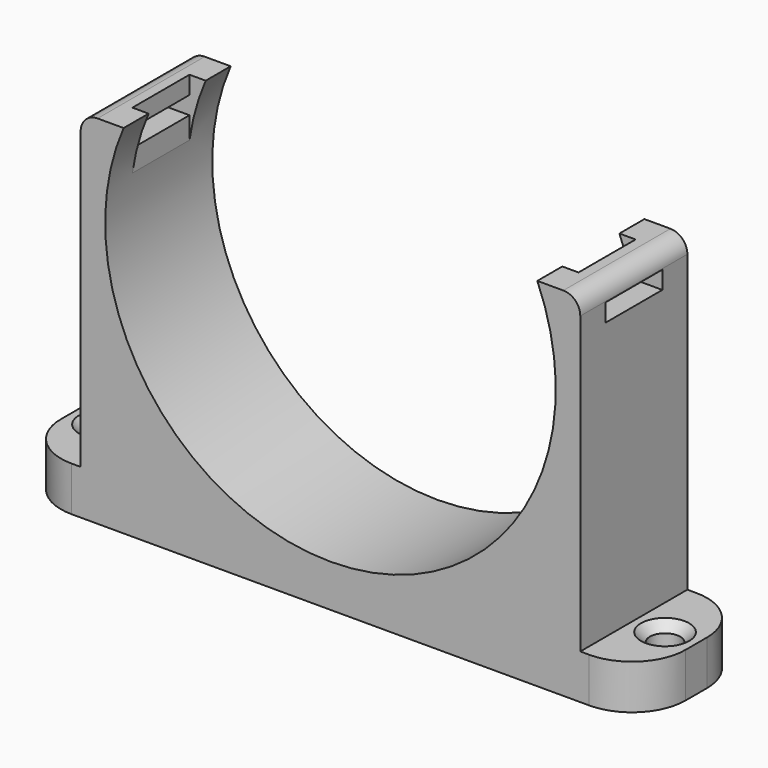
from build123d import *

# Parameters (mm, degrees)
SKETCH_W        = 70
SKETCH_H        = 15
PAD_DEPTH       = 40
SKETCH001_R     = 25.25
POCKET_DEPTH    = 15
SKETCH002_W     = 7
SKETCH002_H     = 15
POCKET001_DEPTH = 35
SKETCH003_R     = 1.7
POCKET002_DEPTH = 5
SKETCH004_W     = 2
SKETCH004_H     = 8
POCKET003_DEPTH = 11
SKETCH005_W     = 8
SKETCH005_H     = 2
POCKET004_DEPTH = 57
FILLET_R        = 1.9
CHAMFER_SIZE    = 1
FILLET001_R     = 6


with BuildPart() as part:
    # Sketch → Pad (new body)
    with BuildSketch(Plane.XY):
        with Locations((35, 7.5)):
            Rectangle(SKETCH_W, SKETCH_H)
    extrude(amount=PAD_DEPTH)

    # Sketch001 (on Face1 of Pad) → Pocket (cut)
    with BuildSketch(Plane.XZ):
        with Locations((35, 30)):
            Circle(SKETCH001_R)
    extrude(amount=-POCKET_DEPTH, mode=Mode.SUBTRACT)

    # Sketch002 (on Face7 of Pocket) → Pocket001 (cut)
    with BuildSketch(Plane.XY.offset(40)):
        with Locations((3.5, 7.5)):
            Rectangle(SKETCH002_W, SKETCH002_H)
        with Locations((66.5, 7.5)):
            Rectangle(SKETCH002_W, SKETCH002_H)
    extrude(amount=-POCKET001_DEPTH, mode=Mode.SUBTRACT)

    # Sketch003 (on Face11 of Pocket001) → Pocket002 (cut)
    with BuildSketch(Plane.XY.offset(5)):
        with Locations((3.5, 7.5)):
            Circle(SKETCH003_R)
        with Locations((66.5, 7.5)):
            Circle(SKETCH003_R)
    extrude(amount=-POCKET002_DEPTH, mode=Mode.SUBTRACT)

    # Sketch004 (on Face9 of Pocket002) → Pocket003 (cut)
    with BuildSketch(Plane.XY.offset(40)):
        with Locations((11, 7.5)):
            Rectangle(SKETCH004_W, SKETCH004_H)
        with Locations((59, 7.5)):
            Rectangle(SKETCH004_W, SKETCH004_H)
    extrude(amount=-POCKET003_DEPTH, mode=Mode.SUBTRACT)

    # Sketch005 (on Face10 of Pocket003) → Pocket004 (cut)
    with BuildSketch(Plane(origin=(7, 0, 0), x_dir=(0, -1, 0), z_dir=(-1, 0, 0))):
        with Locations((-7.5, 37)):
            Rectangle(SKETCH005_W, SKETCH005_H)
    extrude(amount=-POCKET004_DEPTH, mode=Mode.SUBTRACT)

    # Fillet
    fillet_edges = [part.edges().sort_by_distance(p)[0] for p in [
        (7, 7.5, 40),
        (63, 7.5, 40),
    ]]
    fillet(fillet_edges, radius=FILLET_R)

    # Chamfer
    chamfer_edges = [part.edges().sort_by_distance(p)[0] for p in [
        (1.8, 7.5, 5),
        (64.8, 7.5, 5),
    ]]
    chamfer(chamfer_edges, length=CHAMFER_SIZE)

    # Fillet001
    fillet001_edges = [part.edges().sort_by_distance(p)[0] for p in [
        (0, 0, 2.5),
        (0, 15, 2.5),
        (70, 0, 2.5),
        (70, 15, 2.5),
    ]]
    fillet(fillet001_edges, radius=FILLET001_R)


solid = part.part
